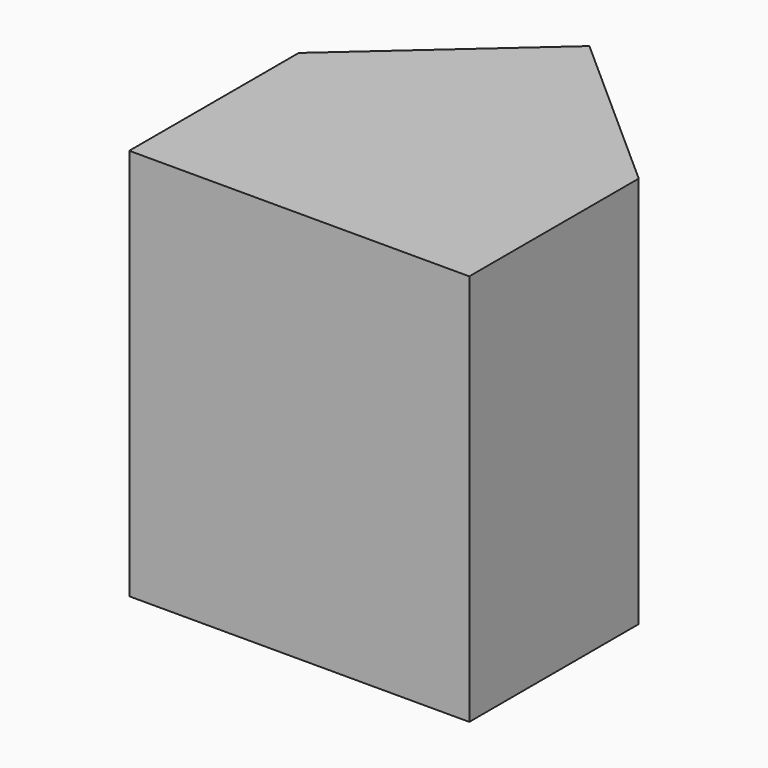
from build123d import *

# Parameters (mm, degrees)
F0_W     = 44.0334193408
F0_H     = 27.4306368083
F1_DEPTH = 50.8
F2_DEPTH = 50.8


with BuildPart() as f1:
    # F0 (on Top) → F1 (new body)
    with BuildSketch(Plane.XY):
        with Locations((22.0167096704, 13.7153184041)):
            Rectangle(F0_W, F0_H)
    extrude(amount=F1_DEPTH)

    # F0 (on Top) → F2 (join)
    with BuildSketch(Plane.XY):
        Polygon((22.0167096704, 46.9665899873), (0, 27.4306368083), (44.0334193408, 27.4306368083), align=None)
    extrude(amount=F2_DEPTH)


solid = f1.part
